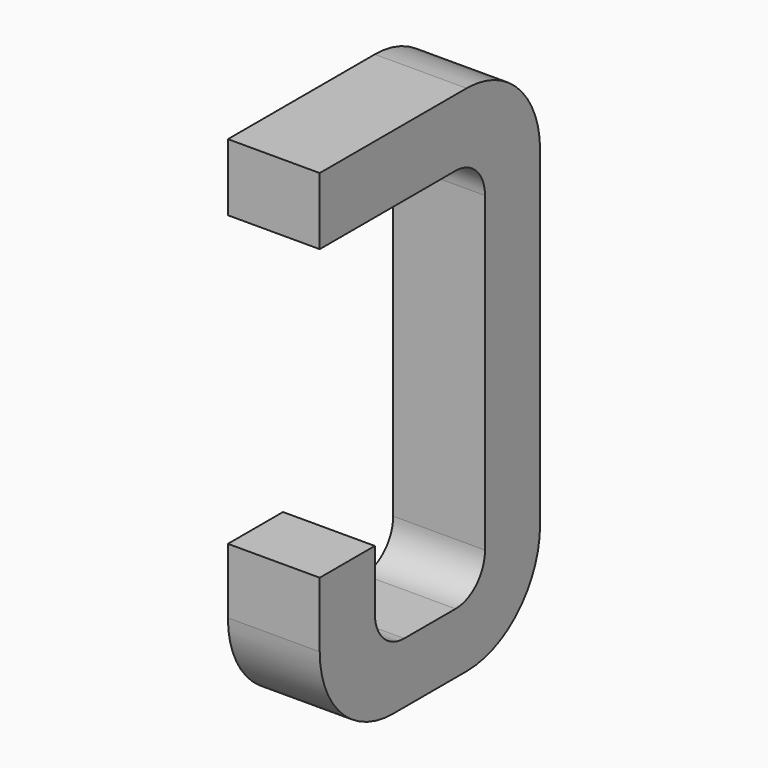
from build123d import *

# Parameters (mm, degrees)
BOX087_W     = 0.5
BOX087_H     = 1.5
BOX087_DEPTH = 2.795
FILLET189_R  = 0.5
FILLET200_R  = 0.5
FILLET186_R  = 0.5
BOX100_W     = 0.75
BOX100_H     = 2.1
BOX100_DEPTH = 1
FILLET180_R  = 0.2
FILLET208_R  = 0.2
FILLET193_R  = 0.2
FILLET179_R  = 0.2
BOX095_W     = 1
BOX095_H     = 1.575
BOX095_DEPTH = 3


with BuildPart() as part:
    # Box087 → Box087 (join)
    with BuildSketch(Plane(origin=(-0.25, 11.125, 0), x_dir=(1, 0, 0), z_dir=(0, 0, 1))):
        with Locations((0.25, 0.75)):
            Rectangle(BOX087_W, BOX087_H)
    extrude(amount=BOX087_DEPTH)

    # Fillet189
    fillet189_edges = [part.edges().sort_by_distance(p)[0] for p in [
        (0, 12.625, 0),
    ]]
    fillet(fillet189_edges, radius=FILLET189_R)

    # Fillet200
    fillet200_edges = [part.edges().sort_by_distance(p)[0] for p in [
        (0, 12.625, 2.795),
    ]]
    fillet(fillet200_edges, radius=FILLET200_R)

    # Fillet186
    fillet186_edges = [part.edges().sort_by_distance(p)[0] for p in [
        (0, 11.125, 0),
    ]]
    fillet(fillet186_edges, radius=FILLET186_R)

    # Box100 → Box100 (cut)
    with BuildSketch(Plane(origin=(-0.5, 11.5, 0.33), x_dir=(0, 1, 0), z_dir=(1, 0, 0))):
        with Locations((0.375, 1.05)):
            Rectangle(BOX100_W, BOX100_H)
    extrude(amount=BOX100_DEPTH, mode=Mode.SUBTRACT)

    # Fillet180
    fillet180_edges = [part.edges().sort_by_distance(p)[0] for p in [
        (0, 11.5, 0.33),
    ]]
    fillet(fillet180_edges, radius=FILLET180_R)

    # Fillet208
    fillet208_edges = [part.edges().sort_by_distance(p)[0] for p in [
        (0, 12.25, 0.33),
    ]]
    fillet(fillet208_edges, radius=FILLET208_R)

    # Fillet193
    fillet193_edges = [part.edges().sort_by_distance(p)[0] for p in [
        (0, 11.5, 2.43),
    ]]
    fillet(fillet193_edges, radius=FILLET193_R)

    # Fillet179
    fillet179_edges = [part.edges().sort_by_distance(p)[0] for p in [
        (0, 12.25, 2.43),
    ]]
    fillet(fillet179_edges, radius=FILLET179_R)

    # Box095 → Box095 (cut)
    with BuildSketch(Plane(origin=(-1, 11, 0.855), x_dir=(0, 1, 0), z_dir=(1, 0, 0))):
        with Locations((0.5, 0.7875)):
            Rectangle(BOX095_W, BOX095_H)
    extrude(amount=BOX095_DEPTH, mode=Mode.SUBTRACT)


with BuildPart() as part_1:
    # Body027 placement: moved
    add(part.part.moved(Location((-2.54, 0, 0))))


solid = part_1.part
